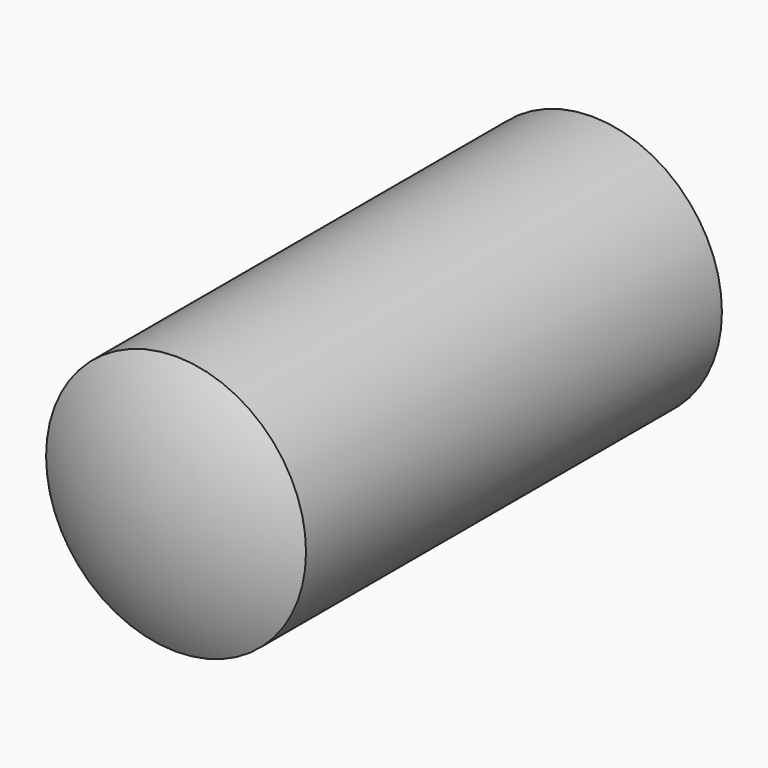
from build123d import *


with BuildPart() as part:
    # Sketch → Revolution (revolve)
    with BuildSketch(Plane.YZ):
        with BuildLine():
            ThreePointArc((10.669873, 0), (10.499502, 1.294095), (10, 2.5))
            Line((0, 2.5), (10, 2.5))
            ThreePointArc((0, 2.5), (-0.499502, 1.294095), (-0.669873, 0))
            Line((-0.669873, 0), (10.669873, 0))
        make_face()
    revolve(axis=Axis((0, 0, 0), (0, 1, 0)))


solid = part.part
